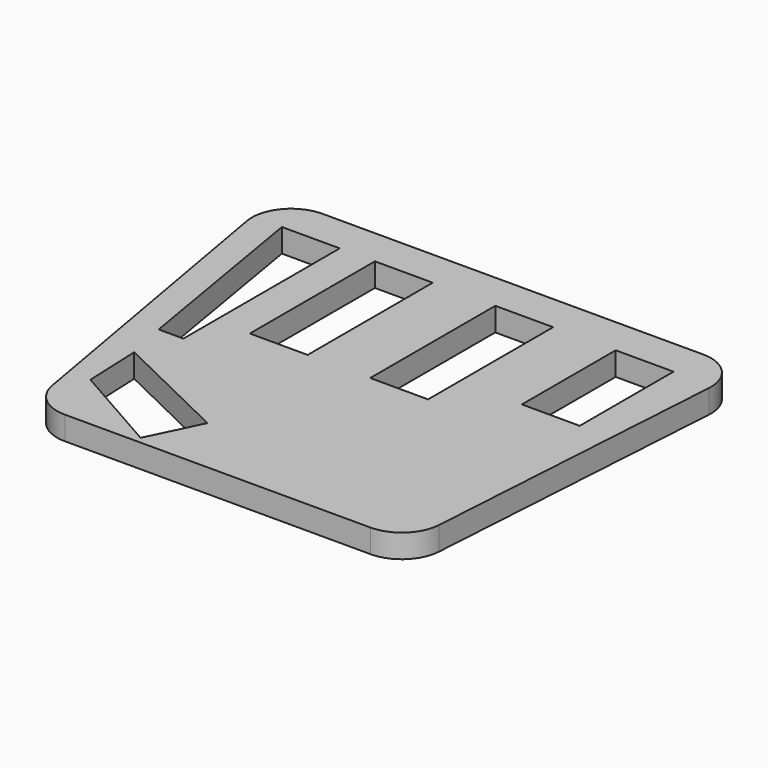
from build123d import *

# Parameters (mm, degrees)
F1_DEPTH = 3
F2_W     = 7.4
F2_H     = 15
F2_H_2   = 20
F3_DEPTH = 3
F5_DEPTH = 3
F6_R     = 5


with BuildPart() as f1:
    # F0 (on Top) → F1 (new body)
    with BuildSketch(Plane.XY):
        Polygon((36.469397, -45.240614), (39.645866, 4.759386), (-20.354134, 4.759386), (-11.530603, -45.240614), align=None)
    extrude(amount=F1_DEPTH)

    # F2 (on face) → F3 (cut, through all)
    with BuildSketch(Plane.XY.offset(3)):
        with Locations((30.633425, -7.5)):
            Rectangle(F2_W, F2_H)
        with Locations((15.233425, -10)):
            Rectangle(F2_W, F2_H_2)
        with Locations((-0.166575, -10)):
            Rectangle(F2_W, F2_H_2)
        Polygon((-8.364385, 0), (-15.764385, 0), (-11.530603, -25), (-8.364385, -25), align=None)
    extrude(amount=-F3_DEPTH, mode=Mode.SUBTRACT)

    # F4 (on face) → F5 (cut, through all)
    with BuildSketch(Plane.XY.offset(3)):
        Polygon((4.934109, -37.770947), (-10.364607, -30.358168), (-10.056541, -37.751752), (1.70737, -44.430388), align=None)
    extrude(amount=-F5_DEPTH, mode=Mode.SUBTRACT)

    # F6
    f6_edges = [f1.edges().sort_by_distance(p)[0] for p in [
        (-20.354134, 4.759386, 1.5),
        (39.645866, 4.759386, 1.5),
        (36.469397, -45.240614, 1.5),
        (-11.530603, -45.240614, 1.5),
    ]]
    fillet(f6_edges, radius=F6_R)


solid = f1.part
